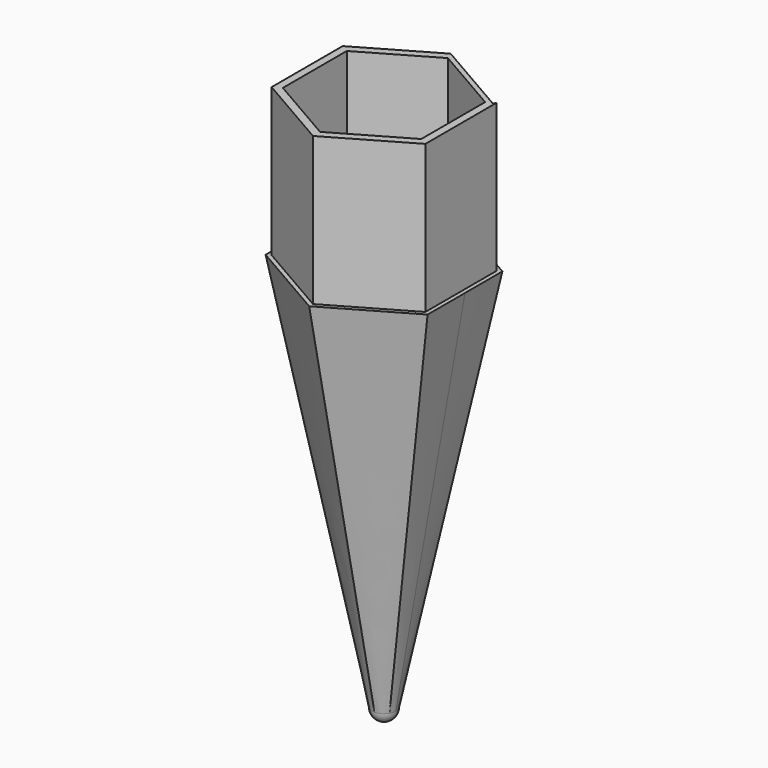
from build123d import *

# Parameters (mm, degrees)
PAD_DEPTH            = 25
SKETCH002_R          = 2
SKETCH003_R          = 1.300458
POCKET_DEPTH         = 2
SKETCH004_R          = 1.5
POCKET001_DEPTH      = 8
SKETCH005_R          = 1.5000493445
POCKET002_DEPTH      = 6.5
POCKET002_DEPTH_BACK = 6.5


with BuildPart() as part:
    # Sketch → Pad (new body)
    with BuildSketch(Plane.XY):
        Polygon((-0.5039697873, 14.7133968199), (-12.9849027673, 7.508821487), (-12.99, -7.5), (0, -14.9996699964), (12.99, -7.5), (12.99, 7.5), (12.74, 7.0669872981), align=None)
        Polygon((0, 13.4996699964), (-11.6910571596, 6.7498349982), (-11.6910571596, -6.7498349982), (0, -13.4996699964), (11.6910571596, -6.7498349982), (11.6910571596, 6.7498349982), align=None, mode=Mode.SUBTRACT)
    extrude(amount=PAD_DEPTH)

    # Sketch001 (on Face14 of Pad) → AdditiveLoft section 0
    with BuildSketch(Plane(origin=(0, 0, 0), x_dir=(1, 0, 0), z_dir=(0, 0, -1))):
        Polygon((0, 15.7996699964), (-13.6829155883, 7.8998349982), (-13.6829155883, -7.8998349982), (0, -15.7996699964), (13.6829155883, -7.8998349982), (13.6829155883, 7.8998349982), align=None)
    # Sketch002 → AdditiveLoft section 1
    with BuildSketch(Plane.XY.offset(-66)):
        Circle(SKETCH002_R)
    loft()

    # Sketch003 (on Face24 of AdditiveLoft) → Pocket (cut)
    with BuildSketch(Plane.XY):
        with Locations((4.766006, 8.46789)):
            Circle(SKETCH003_R)
    extrude(amount=-POCKET_DEPTH, mode=Mode.SUBTRACT)

    # Sketch004 (on Face24 of Pocket) → Pocket001 (cut)
    with BuildSketch(Plane.XY):
        with Locations((0, 5)):
            Circle(SKETCH004_R)
        with Locations((0, -5)):
            Circle(SKETCH004_R)
    extrude(amount=-POCKET001_DEPTH, mode=Mode.SUBTRACT)

    # Sketch005 → Pocket002 (cut, two sides)
    with BuildSketch(Plane.XZ) as pocket002_sk:
        with Locations((0, -8.012167)):
            Circle(SKETCH005_R)
    extrude(amount=-POCKET002_DEPTH, mode=Mode.SUBTRACT)
    extrude(pocket002_sk.sketch, amount=POCKET002_DEPTH_BACK, mode=Mode.SUBTRACT)

    # Sketch006 → Revolution (revolve)
    with BuildSketch(Plane.XZ):
        with BuildLine():
            Line((0, -66), (2, -66))
            ThreePointArc((0, -68), (1.4142135624, -67.4142135624), (2, -66))
            Line((0, -66), (0, -68))
        make_face()
    revolve(axis=Axis((0, 0, 0), (0, 0, 1)))


solid = part.part
